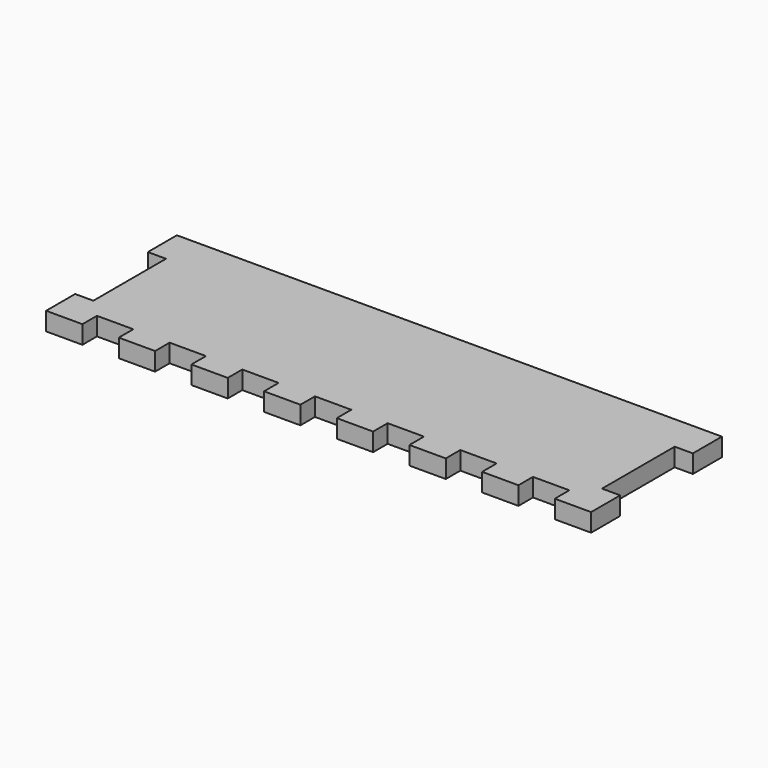
from build123d import *

# Parameters (mm, degrees)
F1_DEPTH = 6.35


with BuildPart() as f1:
    # F0 (on Top) → F1 (new body)
    with BuildSketch(Plane.XY):
        Polygon((190.5, 0), (0, 0), (0, -12.7), (6.35, -12.7), (6.35, -44.45), (0, -44.45), (0, -57.15), (12.7, -57.15), (12.7, -50.8), (25.4, -50.8), (25.4, -57.15), (38.1, -57.15), (38.1, -50.8), (50.8, -50.8), (50.8, -57.15), (63.5, -57.15), (63.5, -50.8), (76.2, -50.8), (76.2, -57.15), (88.9, -57.15), (88.9, -50.8), (101.6, -50.8), (101.6, -57.15), (114.3, -57.15), (114.3, -50.8), (127, -50.8), (127, -57.15), (139.7, -57.15), (139.7, -50.8), (152.4, -50.8), (152.4, -57.15), (165.1, -57.15), (165.1, -50.8), (177.8, -50.8), (177.8, -57.15), (190.5, -57.15), (190.5, -44.45), (184.15, -44.45), (184.15, -12.7), (190.5, -12.7), align=None)
    extrude(amount=F1_DEPTH)


solid = f1.part
